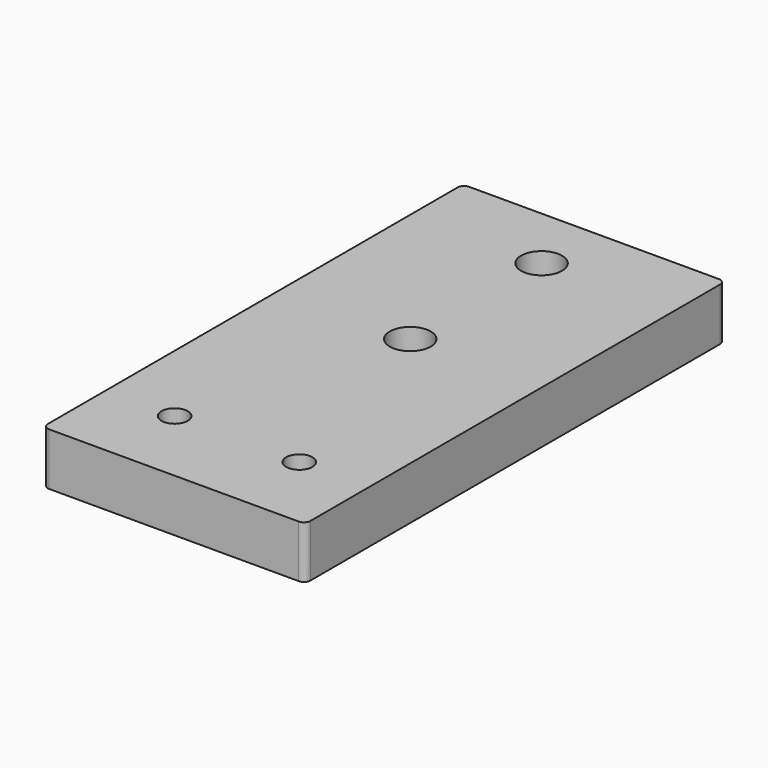
from build123d import *

# Parameters (mm, degrees)
F0_W     = 508
F0_H     = 1016
F1_DEPTH = 101.6
F2_R     = 25.4
F2_R_2   = 39.6875
F3_DEPTH = 101.601
F4_R     = 12.7


with BuildPart() as f1:
    # F0 (on Top) → F1 (new body)
    with BuildSketch(Plane.XY):
        Rectangle(F0_W, F0_H)
    extrude(amount=F1_DEPTH)

    # F2 (on face) → F3 (cut, through all)
    with BuildSketch(Plane.XY.offset(101.6)):
        with Locations((-120.65, -355.6)):
            Circle(F2_R)
        with Locations((120.65, -355.6)):
            Circle(F2_R)
        with Locations((0, 63.5)):
            Circle(F2_R_2)
        with Locations((0, 381)):
            Circle(F2_R_2)
    extrude(amount=-F3_DEPTH, mode=Mode.SUBTRACT)

    # F4
    f4_edges = [f1.edges().sort_by_distance(p)[0] for p in [
        (-254, -508, 50.8),
        (254, -508, 50.8),
        (254, 508, 50.8),
        (-254, 508, 50.8),
    ]]
    fillet(f4_edges, radius=F4_R)


solid = f1.part
